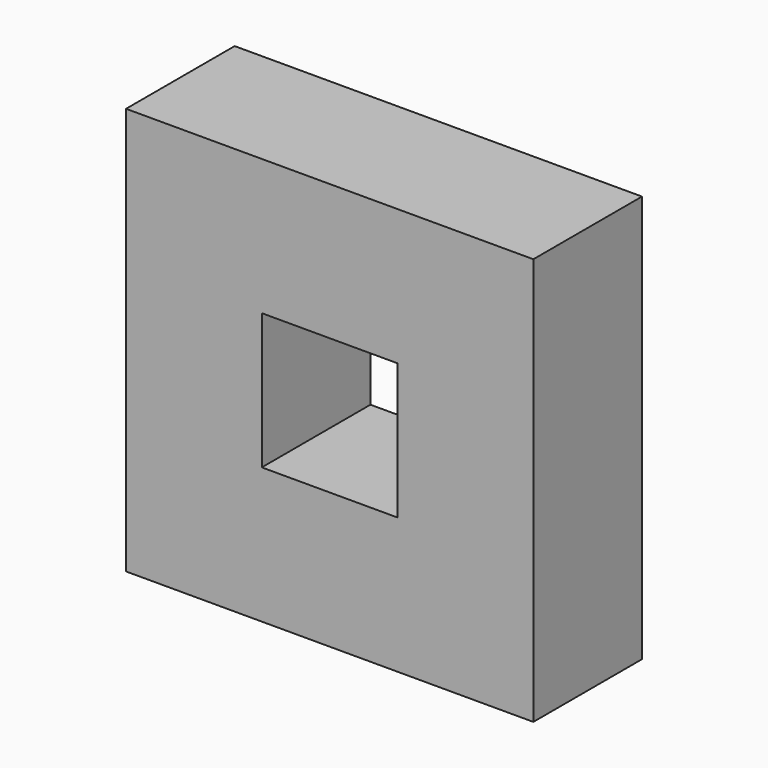
from build123d import *

# Parameters (mm, degrees)
F0_W     = 25.4
F0_H     = 25.4
F1_DEPTH = 25.4


with BuildPart() as f1:
    # F0 (on Front) → F1 (new body)
    with BuildSketch(Plane.XZ):
        with Locations((-25.4, 25.4)):
            Rectangle(F0_W, F0_H)
        with Locations((0, 25.4)):
            Rectangle(F0_W, F0_H)
        with Locations((25.4, 25.4)):
            Rectangle(F0_W, F0_H)
        with Locations((25.4, 0)):
            Rectangle(F0_W, F0_H)
        with Locations((25.4, -25.4)):
            Rectangle(F0_W, F0_H)
        with Locations((0, -25.4)):
            Rectangle(F0_W, F0_H)
        with Locations((-25.4, -25.4)):
            Rectangle(F0_W, F0_H)
        with Locations((-25.4, 0)):
            Rectangle(F0_W, F0_H)
    extrude(amount=F1_DEPTH)


solid = f1.part
